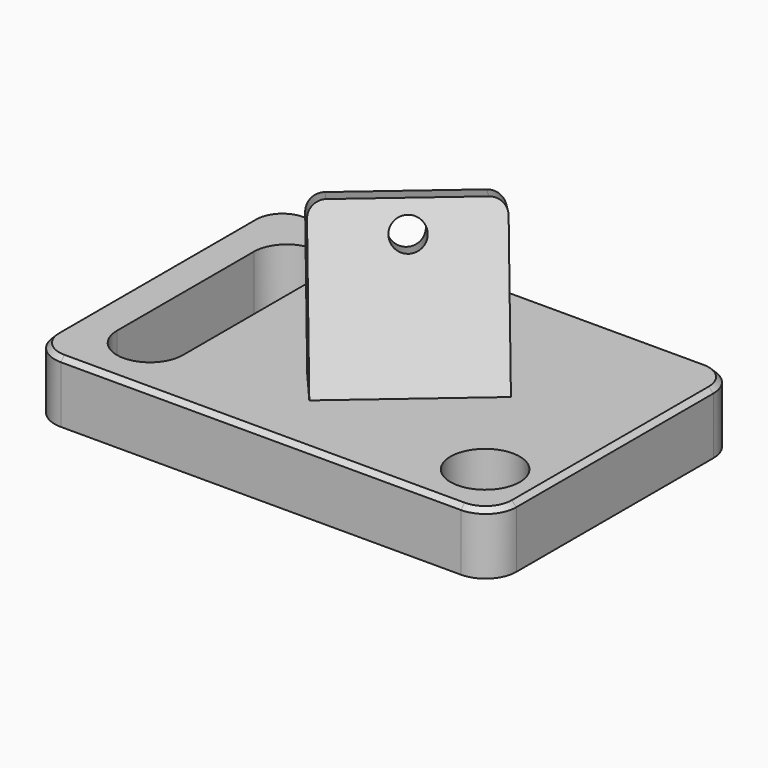
from build123d import *

# Parameters (mm, degrees)
F0_W          = 76.2
F0_H          = 50.8
F1_DEPTH      = 10.16
F5_DEPTH      = 23.60986
F5_DEPTH_BACK = 6.00945
F7_DEPTH      = 25.4
F9_D          = 11.43
F9_DEPTH      = 127
F11_D         = 5.08
F11_DEPTH     = 127
F12_R         = 5.08
F13_SIZE      = 0.762
F14_R         = 2.54


with BuildPart() as f1:
    # F0 (on Top) → F1 (new body)
    with BuildSketch(Plane.XY):
        with Locations((-0.290839, 25.4)):
            Rectangle(F0_W, F0_H)
    extrude(amount=F1_DEPTH)

    # F4 (on face) → F5 (join, two sides)
    with BuildSketch(Plane(origin=(-3.34157, 3.876222, 14.060855), x_dir=(0.974746, 0.059349, 0.215288), z_dir=(-0.223318, 0.259049, 0.939693))) as f5_sk:
        Polygon((17.944019, 29.214139), (-2.262714, 12.845073), (2.102678, 7.456231), (22.309411, 23.825297), align=None)
    extrude(amount=F5_DEPTH)
    extrude(f5_sk.sketch, amount=-F5_DEPTH_BACK)

    # F6 (on face) → F7 (cut)
    with BuildSketch(Plane.XY.offset(10.16)):
        with BuildLine():
            ThreePointArc((-21.356091, 38.483839), (-26.801871, 43.92962), (-32.247651, 38.483839))
            Line((-32.247651, 38.483839), (-32.247651, 10.246455))
            ThreePointArc((-32.247651, 10.246455), (-26.801871, 4.800675), (-21.356091, 10.246455))
            Line((-21.356091, 10.246455), (-21.356091, 38.483839))
        make_face()
    extrude(amount=-F7_DEPTH, mode=Mode.SUBTRACT)

    # F9
    with Locations(Plane.XY.offset(10.16)):
        with Locations((28.977718, 9.68211)):
            Hole(F9_D / 2, depth=F9_DEPTH)

    # F11
    with Locations(Plane(origin=(-2.742742, 3.181581, -1.528896), x_dir=(0.789646, 0.553023, -0.265753), z_dir=(0.613563, -0.711733, 0.34202))):
        with Locations((8.980069, 37.900489)):
            Hole(F11_D / 2, depth=F11_DEPTH)

    # F12
    f12_edges = [f1.edges().sort_by_distance(p)[0] for p in [
        (37.809161, 0, 5.08),
        (37.809161, 50.8, 5.08),
        (-38.390839, 50.8, 5.08),
        (-38.390839, 0, 5.08),
    ]]
    fillet(f12_edges, radius=F12_R)

    # F13
    f13_edges = [f1.edges().sort_by_distance(p)[0] for p in [
        (-0.290839, 0, 10.16),
    ]]
    chamfer(f13_edges, length=F13_SIZE)

    # F14
    f14_edges = [f1.edges().sort_by_distance(p)[0] for p in [
        (-8.692086, 19.773218, 33.531991),
        (11.004337, 36.752892, 33.531991),
    ]]
    fillet(f14_edges, radius=F14_R)


solid = f1.part
